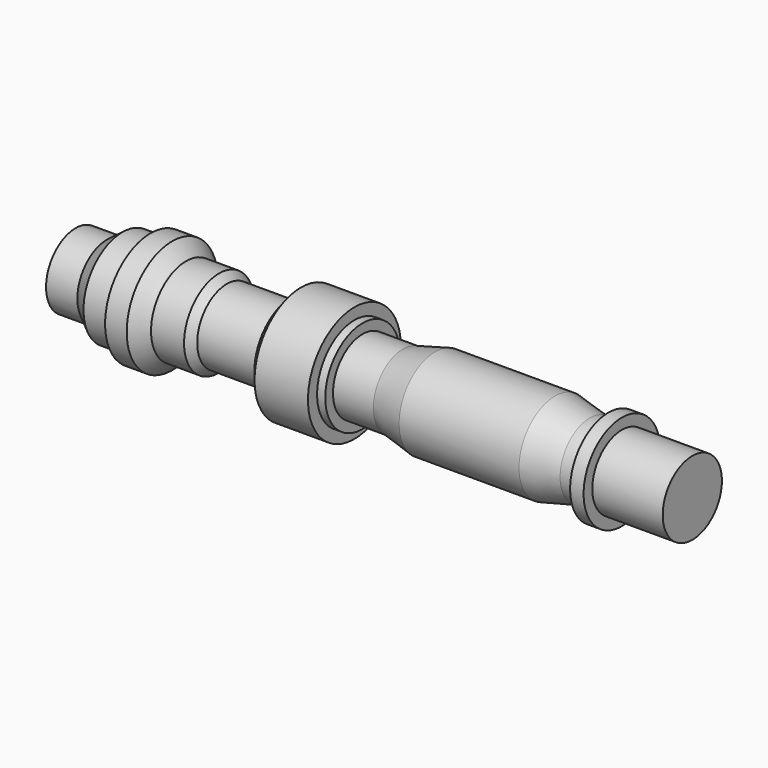
from build123d import *

# Parameters (mm, degrees)
F0_W = 54.543138
F0_H = 44.022134


with BuildPart() as f1:
    # F0 (on Top) → F1 (revolve)
    with BuildSketch(Plane.XY):
        Polygon((-1250, 150), (-1250, 0), (1250, 0), (1250, 150), (964.447558, 150), (909.90442, 150), (833.874702, 150), (76.882489, 150), (-86.746827, 150), (-374.337733, 150), (-637.13634, 150), (-1123.065829, 150), align=None)
        Polygon((-1060.258627, 197.327778), (-1123.065829, 150), (-637.13634, 150), (-668.539941, 177.4939), (-802.41847, 177.4939), (-858.614385, 230.384186), (-946.213901, 230.384186), (-946.213901, 197.327778), align=None)
        with Locations((937.175989, 172.011067)):
            Rectangle(F0_W, F0_H)
        Polygon((-374.337733, 189.063668), (-374.337733, 150), (-86.746827, 150), (-86.746827, 189.063668), (-119.80325, 189.063668), (-119.80325, 235.342652), (-336.322844, 235.342652), (-336.322844, 189.063668), align=None)
        Polygon((76.882489, 150), (833.874702, 150), (693.384826, 182.452381), (207.455367, 182.452381), align=None)
    revolve(axis=Axis((0, 0, 0), (1, 0, 0)))


solid = f1.part
